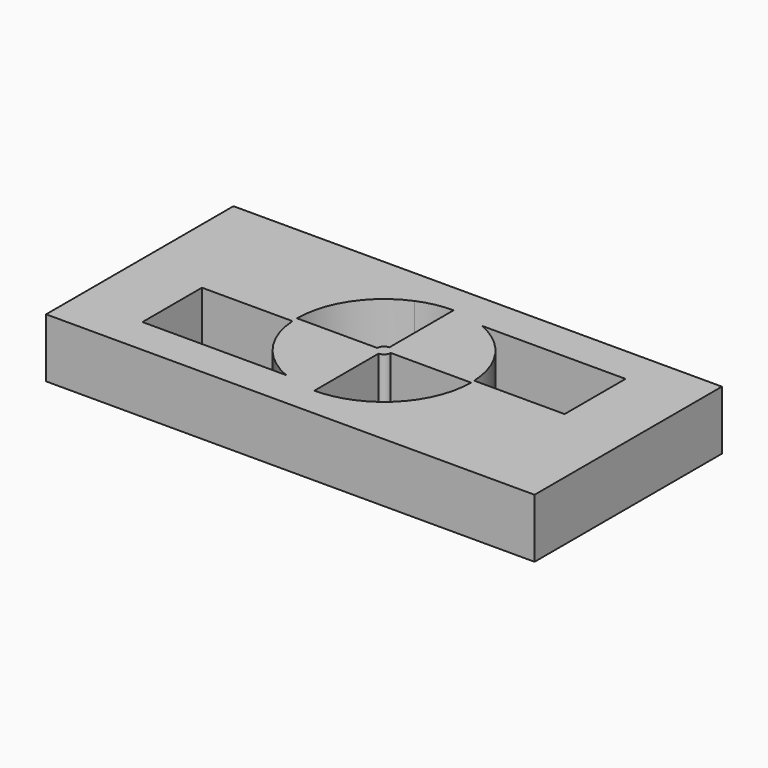
from build123d import *

# Parameters (mm, degrees)
F1_DEPTH = 5.08


with BuildPart() as f1:
    # F0 (on Top) → F1 (new body)
    with BuildSketch(Plane.XY):
        Polygon((21.0098195821, 10.0732017308), (0, 10.0732017308), (-21.0098195821, 10.0732017308), (-21.0098195821, 0), (-21.0098195821, -10.0732017308), (0, -10.0732017308), (21.0098195821, -10.0732017308), (21.0098195821, 0), align=None)
        with BuildLine():
            Line((15.2537059039, -6.9073382765), (2.8924141151, -6.9073382765))
            ThreePointArc((2.8924141151, -6.9073382765), (1.4751092249, -7.3417596157), (0, -7.4884832563))
            ThreePointArc((0, -7.4884832563), (-1.4751092249, -7.3417596157), (-2.8924141151, -6.9073382765))
            Line((-2.8924141151, -6.9073382765), (-15.2537059039, -6.9073382765))
            Line((-15.2537059039, -6.9073382765), (-15.2537059039, -0.5080337272))
            Line((-15.2537059039, -0.5080337272), (-15.2537059039, 0))
            Line((-15.2537059039, 0), (-15.2537059039, 6.9073382765))
            Line((-15.2537059039, 6.9073382765), (-2.8924141151, 6.9073382765))
            ThreePointArc((-2.8924141151, 6.9073382765), (-1.4751092249, 7.3417596157), (0, 7.4884832563))
            ThreePointArc((0, 7.4884832563), (1.4751092249, 7.3417596157), (2.8924141151, 6.9073382765))
            Line((2.8924141151, 6.9073382765), (15.2537059039, 6.9073382765))
            Line((15.2537059039, 6.9073382765), (15.2537059039, 0.3525706587))
            Line((15.2537059039, 0.3525706587), (15.2537059039, 0))
            Line((15.2537059039, 0), (15.2537059039, -6.9073382765))
        make_face(mode=Mode.SUBTRACT)
        with BuildLine():
            ThreePointArc((-7.4884832563, 0), (-6.234467746, 4.1483482742), (-2.8924141151, 6.9073382765))
            Line((-2.8924141151, 6.9073382765), (-15.2537059039, 6.9073382765))
            Line((-15.2537059039, 6.9073382765), (-15.2537059039, 0))
            Line((-15.2537059039, 0), (-15.2537059039, -0.5080337272))
            Line((-15.2537059039, -0.5080337272), (-7.471230368, -0.5080337272))
            ThreePointArc((-7.471230368, -0.5080337272), (-7.4841687913, -0.2541632989), (-7.4884832563, 0))
        make_face()
        with BuildLine():
            ThreePointArc((7.4801788354, 0.3525706587), (7.4864068632, 0.176334223), (7.4884832563, 0))
            ThreePointArc((7.4884832563, 0), (6.234467746, -4.1483482742), (2.8924141151, -6.9073382765))
            Line((2.8924141151, -6.9073382765), (15.2537059039, -6.9073382765))
            Line((15.2537059039, -6.9073382765), (15.2537059039, 0))
            Line((15.2537059039, 0), (15.2537059039, 0.3525706587))
            Line((15.2537059039, 0.3525706587), (7.4801788354, 0.3525706587))
        make_face()
        with BuildLine():
            ThreePointArc((-2.8924141151, -6.9073382765), (-1.4751092249, -7.3417596157), (0, -7.4884832563))
            Line((0, -7.4884832563), (0, -0.5792839078))
            ThreePointArc((0, -0.5792839078), (-0.4096155795, -0.4096155795), (-0.5792839078, 0))
            Line((-0.5792839078, 0), (-7.4884832563, 0))
            ThreePointArc((-7.4884832563, 0), (-7.4841687913, -0.2541632989), (-7.471230368, -0.5080337272))
            ThreePointArc((-7.471230368, -0.5080337272), (-6.0900785235, -4.35755953), (-2.8924141151, -6.9073382765))
        make_face()
        with BuildLine():
            Line((0.5792839078, 0), (7.4884832563, 0))
            ThreePointArc((7.4884832563, 0), (7.4864068632, 0.176334223), (7.4801788354, 0.3525706587))
            ThreePointArc((7.4801788354, 0.3525706587), (6.1350562964, 4.2940034605), (2.8924141151, 6.9073382765))
            ThreePointArc((2.8924141151, 6.9073382765), (1.4751092249, 7.3417596157), (0, 7.4884832563))
            Line((0, 7.4884832563), (0, 0.5792839078))
            ThreePointArc((0, 0.5792839078), (0.4096155795, 0.4096155795), (0.5792839078, 0))
        make_face()
        with BuildLine():
            Line((-0.5792839078, 0), (0, 0))
            Line((0, 0), (0, 0.5792839078))
            ThreePointArc((0, 0.5792839078), (-0.4096155795, 0.4096155795), (-0.5792839078, 0))
        make_face()
        with BuildLine():
            Line((0, 0), (0.5792839078, 0))
            ThreePointArc((0.5792839078, 0), (0.4096155795, 0.4096155795), (0, 0.5792839078))
            Line((0, 0.5792839078), (0, 0))
        make_face()
        with BuildLine():
            ThreePointArc((0, -0.5792839078), (0.4096155795, -0.4096155795), (0.5792839078, 0))
            Line((0.5792839078, 0), (0, 0))
            Line((0, 0), (0, -0.5792839078))
        make_face()
        with BuildLine():
            Line((0, -0.5792839078), (0, 0))
            Line((0, 0), (-0.5792839078, 0))
            ThreePointArc((-0.5792839078, 0), (-0.4096155795, -0.4096155795), (0, -0.5792839078))
        make_face()
    extrude(amount=F1_DEPTH)


solid = f1.part
